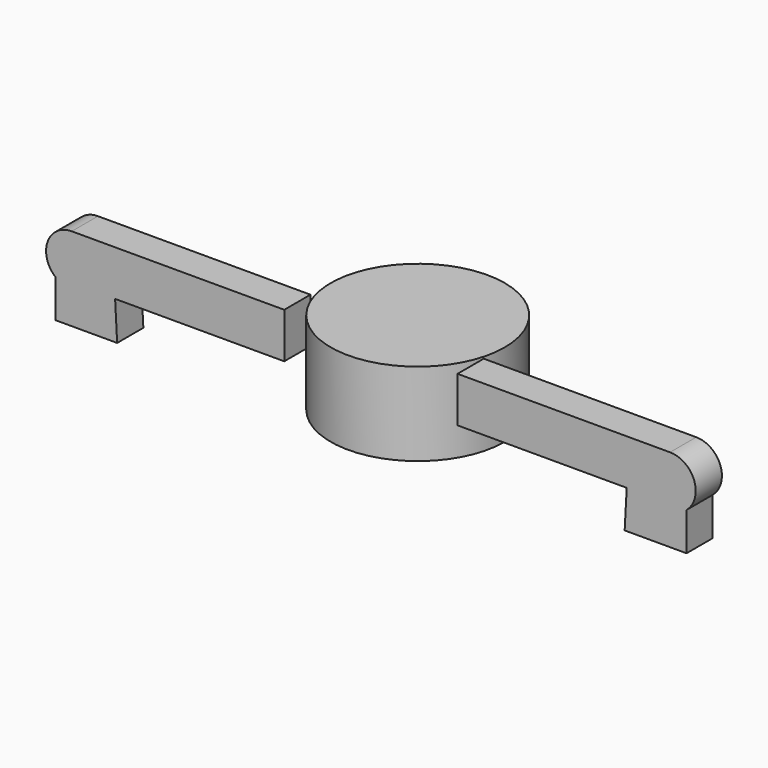
from build123d import *

# Parameters (mm, degrees)
F0_R     = 13.293597
F1_DEPTH = 12.7
F3_DEPTH = 5


with BuildPart() as f1:
    # F0 (on Top) → F1 (new body)
    with BuildSketch(Plane.XY):
        with Locations((-7.402501, 3.9375)):
            Circle(F0_R)
    extrude(amount=F1_DEPTH)


with BuildPart() as f3:
    # F2 (on Front) → F3 (new body)
    with BuildSketch(Plane.XZ):
        with BuildLine():
            Line((38.2725, 12.7575), (5.827501, 12.7575))
            Line((5.827501, 12.7575), (5.827501, 5.8275))
            Line((5.827501, 5.8275), (31.657498, 5.8275))
            Line((31.657498, 5.8275), (31.342499, 0))
            Line((31.342499, 0), (40.792502, 0))
            Line((40.792502, 0), (40.792502, 5.8275))
            ThreePointArc((40.792502, 5.8275), (41.959481, 10.175039), (38.2725, 12.7575))
        make_face()
        with BuildLine():
            Line((-20.632504, 5.8275), (-20.632504, 12.7575))
            Line((-20.632504, 12.7575), (-53.077502, 12.7575))
            ThreePointArc((-53.077502, 12.7575), (-56.764483, 10.175039), (-55.597505, 5.8275))
            Line((-55.597505, 5.8275), (-55.597505, 0))
            Line((-55.597505, 0), (-46.147501, 0))
            Line((-46.147501, 0), (-46.4625, 5.8275))
            Line((-46.4625, 5.8275), (-20.632504, 5.8275))
        make_face()
    extrude(amount=F3_DEPTH)


solid = Compound([f1.part, f3.part])
